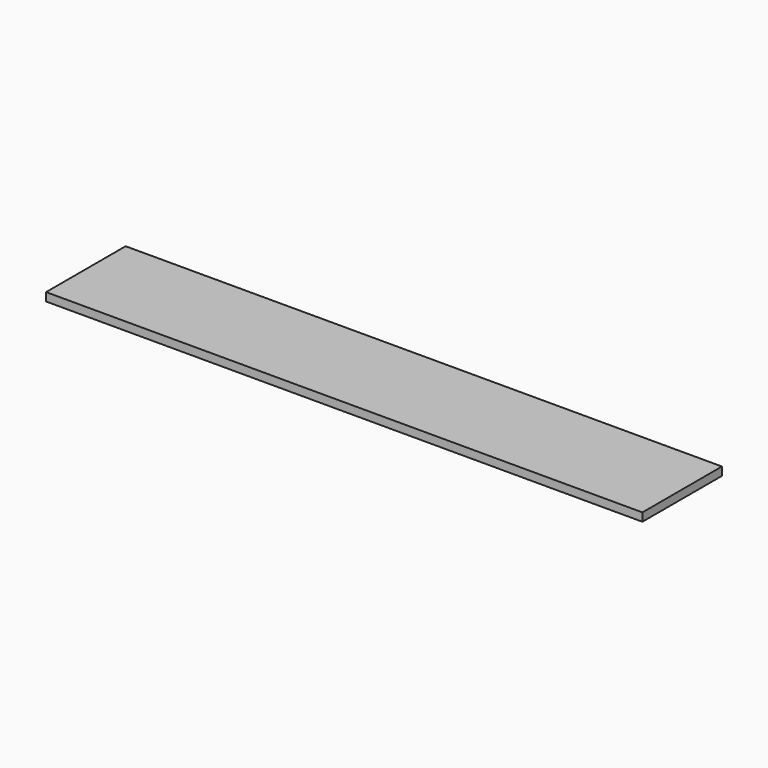
from build123d import *

# Parameters (mm, degrees)
F1_W     = 457.2
F1_H     = 76.2
F2_DEPTH = 6.35


with BuildPart() as f2:
    # F1 (on face) → F2 (new body)
    with BuildSketch(Plane.XY):
        with Locations((-13.486223, -151.527853)):
            Rectangle(F1_W, F1_H)
    extrude(amount=F2_DEPTH)


solid = f2.part
